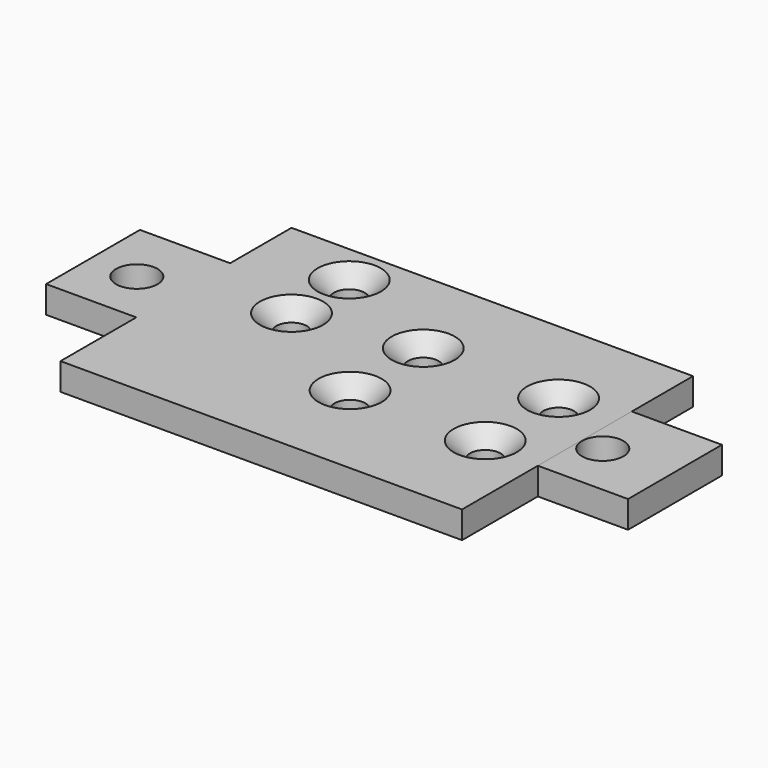
from build123d import *

# Parameters (mm, degrees)
PAD_DEPTH        = 3
SKETCH001_R      = 1.7
POCKET_DEPTH     = 3
SKETCH002_W      = 13
SKETCH002_H      = 3
PAD001_DEPTH     = 10
PAD002_DEPTH     = 10
SKETCH011_R      = 2.3
POCKET003_DEPTH  = 3
POCKET004_DEPTH  = 4
HOLE_D           = 1.75
HOLE_DEPTH       = 25
HOLE_CSINK_D     = 7
HOLE_CSINK_ANGLE = 90


with BuildPart() as part:
    # Sketch → Pad (new body)
    with BuildSketch(Plane.XY):
        Polygon((-17, 26.5), (27.5, 26.5), (27.499024, -5.5), (-17.001501, -5.5), align=None)
    extrude(amount=PAD_DEPTH)

    # Sketch001 (on Face6 of Pad) → Pocket (cut)
    with BuildSketch(Plane.XY.offset(3)):
        with Locations((-7, 22)):
            Circle(SKETCH001_R)
        with Locations((-7, 14)):
            Circle(SKETCH001_R)
        with Locations((6, 16)):
            Circle(SKETCH001_R)
        with Locations((21, 16)):
            Circle(SKETCH001_R)
        with Locations((6, 5.864343)):
            Circle(SKETCH001_R)
        with Locations((20.999966, 5.832606)):
            Circle(SKETCH001_R)
    extrude(amount=-POCKET_DEPTH, mode=Mode.SUBTRACT)

    # Sketch002 (on Face2 of Pocket) → Pad001 (join)
    with BuildSketch(Plane(origin=(-17.001243, 0.000797, 0), x_dir=(-4.7e-05, -1, 0), z_dir=(-1, 4.7e-05, 0))):
        with Locations((-11.5, 1.5)):
            Rectangle(SKETCH002_W, SKETCH002_H)
    extrude(amount=PAD001_DEPTH)

    # Sketch003 (on Face3 of Pad001) → Pad002 (join)
    with BuildSketch(Plane(origin=(27.499192, -0.000839, 0), x_dir=(3e-05, 1, 0), z_dir=(1, -3e-05, 0))):
        Polygon((5, -5.3e-05), (18, 0.009854), (18, 3.010224), (5, 3.000316), align=None)
    extrude(amount=PAD002_DEPTH)

    # Sketch011 (on Face10 of Pad002) → Pocket003 (cut)
    with BuildSketch(Plane(origin=(0, 0, 0), x_dir=(1, 0, 0), z_dir=(0, 0, -1))):
        with Locations((-21.745842, -11)):
            Circle(SKETCH011_R)
        with Locations((29.89052, -11)):
            Circle(SKETCH011_R)
    extrude(amount=-POCKET003_DEPTH, mode=Mode.SUBTRACT)

    # Sketch011 (on Face10 of Pad002) → Pocket004 (cut)
    with BuildSketch(Plane(origin=(0, 0, 0), x_dir=(1, 0, 0), z_dir=(0, 0, -1))):
        with Locations((-21.745842, -11)):
            Circle(SKETCH011_R)
        with Locations((29.89052, -11)):
            Circle(SKETCH011_R)
    extrude(amount=-POCKET004_DEPTH, mode=Mode.SUBTRACT)

    # Hole
    with Locations(Plane.XY.offset(3)):
        with Locations((-7, 22), (-7, 14), (6, 16), (21, 16), (6, 5.864343), (20.999966, 5.832606)):
            CounterSinkHole(HOLE_D / 2, HOLE_CSINK_D / 2, depth=HOLE_DEPTH, counter_sink_angle=HOLE_CSINK_ANGLE)


solid = part.part
